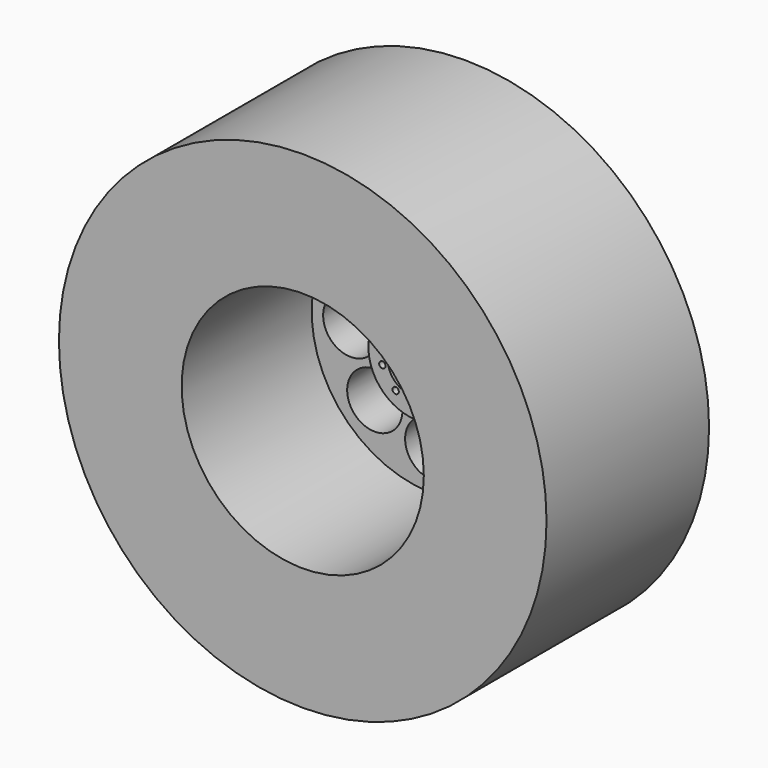
from build123d import *

# Parameters (mm, degrees)
F0_R      = 19.05
F0_R_2    = 17.4625
F1_DEPTH  = 15.875
F2_DEPTH  = 15.875
F3_R      = 9.525
F4_DEPTH  = 12.7
F5_R      = 18.25625
F5_R_2    = 9.525
F6_DEPTH  = 15.8496
F7_R      = 9.5249999873
F7_R_2    = 9.4615
F8_DEPTH  = 12.7
F9_R      = 2.1618701317
F10_DEPTH = 25.4
F11_R     = 3.81
F11_R_2   = 0.2486890232
F12_DEPTH = 1.524
F13_DEPTH = 2.032
F14_R     = 3.4925
F14_R_2   = 2.54
F15_DEPTH = 9.906
F17_DEPTH = 6.35
F18_R     = 1.5875
F19_DEPTH = 25.4


with BuildPart() as f1:
    # F0 (on Front) → F1 (new body)
    with BuildSketch(Plane.XZ):
        Circle(F0_R)
        Circle(F0_R_2, mode=Mode.SUBTRACT)
    extrude(amount=-F1_DEPTH)

    # F0 (on Front) → F2 (join)
    with BuildSketch(Plane.XZ):
        Circle(F0_R_2)
    extrude(amount=-F2_DEPTH)

    # F3 (on face) → F4 (cut)
    with BuildSketch(Plane.XZ):
        Circle(F3_R)
    extrude(amount=-F4_DEPTH, mode=Mode.SUBTRACT)

    # F5 (on face) → F6 (cut)
    with BuildSketch(Plane(origin=(0, 15.875, 0), x_dir=(-1, 0, 0), z_dir=(0, 1, 0))):
        Circle(F5_R)
        Circle(F5_R_2, mode=Mode.SUBTRACT)
    extrude(amount=-F6_DEPTH, mode=Mode.SUBTRACT)

    # F7 (on face) → F8 (join)
    with BuildSketch(Plane.XZ.offset(-12.7)):
        Circle(F7_R)
        Circle(F7_R_2, mode=Mode.SUBTRACT)
    extrude(amount=F8_DEPTH)

    # F9 (on face) → F10 (cut)
    with BuildSketch(Plane(origin=(0, 15.875, 0), x_dir=(-1, 0, 0), z_dir=(0, 1, 0))):
        with Locations((-4.5284211656, 4.5284211656)):
            Circle(F9_R)
        with Locations((-6.4041546286, 0)):
            Circle(F9_R)
        with Locations((-4.5284211656, -4.5284211656)):
            Circle(F9_R)
        with Locations((0, -6.4041546286)):
            Circle(F9_R)
        with Locations((4.5284211656, -4.5284211656)):
            Circle(F9_R)
        with Locations((6.4041546286, 0)):
            Circle(F9_R)
        with Locations((4.5284211656, 4.5284211656)):
            Circle(F9_R)
        with Locations((0, 6.4041546286)):
            Circle(F9_R)
    extrude(amount=-F10_DEPTH, mode=Mode.SUBTRACT)

    # F11 (on face) → F12 (join)
    with BuildSketch(Plane.XZ.offset(-12.7)):
        Circle(F11_R)
        with Locations((-2.7176439953, -0.8830160614)):
            Circle(F11_R_2, mode=Mode.SUBTRACT)
        with Locations((-1.6795963584, -2.3117660614)):
            Circle(F11_R_2, mode=Mode.SUBTRACT)
        with Locations((0, -2.8575)):
            Circle(F11_R_2, mode=Mode.SUBTRACT)
        with Locations((1.6795963584, -2.3117660614)):
            Circle(F11_R_2, mode=Mode.SUBTRACT)
        with Locations((2.7176439953, -0.8830160614)):
            Circle(F11_R_2, mode=Mode.SUBTRACT)
        with Locations((-2.7176439953, 0.8830160614)):
            Circle(F11_R_2, mode=Mode.SUBTRACT)
        with Locations((-1.6795963584, 2.3117660614)):
            Circle(F11_R_2, mode=Mode.SUBTRACT)
        with BuildLine():
            ThreePointArc((0, 1.905), (1.3470384182, 1.3470384182), (1.905, 0))
            ThreePointArc((1.905, 0), (-1.3470384182, -1.3470384182), (0, 1.905))
        make_face(mode=Mode.SUBTRACT)
        with Locations((1.6795963584, 2.3117660614)):
            Circle(F11_R_2, mode=Mode.SUBTRACT)
        with Locations((2.7176439953, 0.8830160614)):
            Circle(F11_R_2, mode=Mode.SUBTRACT)
        with BuildLine():
            ThreePointArc((0.2486890232, 2.8575), (0.1758496947, 2.6816503053), (0, 2.6088109768))
            ThreePointArc((0, 2.6088109768), (-0.1758496947, 3.0333496947), (0.2486890232, 2.8575))
        make_face(mode=Mode.SUBTRACT)
    extrude(amount=F12_DEPTH)

    # F13 (add): a face of the model
    f13_faces = [f1.faces().sort_by_distance(p)[0] for p in [
        (0, 12.7, 0),
    ]]
    extrude(f13_faces, amount=F13_DEPTH)

    # F14 (on face) → F15 (join)
    with BuildSketch(Plane(origin=(0, 15.875, 0), x_dir=(-1, 0, 0), z_dir=(0, 1, 0))):
        Circle(F14_R)
        Circle(F14_R_2, mode=Mode.SUBTRACT)
    extrude(amount=F15_DEPTH)

    # F16 (on face) → F17 (join)
    with BuildSketch(Plane(origin=(0, 0.0254, 0), x_dir=(-1, 0, 0), z_dir=(0, 1, 0))):
        with BuildLine():
            ThreePointArc((-0.1918367084, 9.5230679761), (-0.0959232185, 9.5245169818), (0, 9.525))
            ThreePointArc((0, 9.525), (0.1051390114, 9.5244197087), (0.210265212, 9.5226789057))
            Line((0.210265212, 9.5226789057), (0.210265212, 13.3574450496))
            ThreePointArc((0.210265212, 13.3574450496), (0.5715, 13.8888590037), (0.210265212, 14.4202729578))
            Line((0.210265212, 14.4202729578), (0.210265212, 18.2550391017))
            ThreePointArc((0.210265212, 18.2550391017), (0.0092148106, 18.2562476744), (-0.1918367084, 18.2552420619))
            Line((-0.1918367084, 18.2552420619), (-0.1918367084, 14.4271999062))
            ThreePointArc((-0.1918367084, 14.4271999062), (-0.5715, 13.8888590037), (-0.1918367084, 13.3505181011))
            Line((-0.1918367084, 13.3505181011), (-0.1918367084, 9.5230679761))
        make_face()
        with BuildLine():
            ThreePointArc((-8.3431371434, 4.5953985252), (-8.244279957, 4.770479325), (-8.1417492384, 4.943434468))
            Line((-8.1417492384, 4.943434468), (-11.4627541366, 6.8608175399))
            ThreePointArc((-11.4627541366, 6.8608175399), (-11.7423547268, 7.4393630201), (-12.383190105, 7.392231494))
            Line((-12.383190105, 7.392231494), (-15.7041950031, 9.3096145659))
            ThreePointArc((-15.7041950031, 9.3096145659), (-15.8057668585, 9.1361040973), (-15.905421732, 8.9614855682))
            Line((-15.905421732, 8.9614855682), (-12.5902399784, 7.0474644903))
            ThreePointArc((-12.5902399784, 7.0474644903), (-12.3138547268, 6.4494959836), (-11.6578061835, 6.5091235878))
            Line((-11.6578061835, 6.5091235878), (-8.3431371434, 4.5953985252))
        make_face()
        with BuildLine():
            ThreePointArc((-8.1513004351, -4.9276694509), (-8.2534962622, -4.7545162162), (-8.3520144504, -4.5792444377))
            Line((-8.3520144504, -4.5792444377), (-11.6730193486, -6.4966275097))
            ThreePointArc((-11.6730193486, -6.4966275097), (-12.3138547268, -6.4494959836), (-12.5934553169, -7.0280414638))
            Line((-12.5934553169, -7.0280414638), (-15.9144602151, -8.9454245357))
            ThreePointArc((-15.9144602151, -8.9454245357), (-15.8149816691, -9.1201435771), (-15.7135850237, -9.2937564938))
            Line((-15.7135850237, -9.2937564938), (-12.3984032701, -7.3797354159))
            ThreePointArc((-12.3984032701, -7.3797354159), (-11.7423547268, -7.4393630201), (-11.4659694751, -6.8413945134))
            Line((-11.4659694751, -6.8413945134), (-8.1513004351, -4.9276694509))
        make_face()
        with BuildLine():
            ThreePointArc((0.1918367084, -9.5230679761), (-0.0092163051, -9.5249955412), (-0.210265212, -9.5226789057))
            Line((-0.210265212, -9.5226789057), (-0.210265212, -13.3574450496))
            ThreePointArc((-0.210265212, -13.3574450496), (-0.5715, -13.8888590037), (-0.210265212, -14.4202729578))
            Line((-0.210265212, -14.4202729578), (-0.210265212, -18.2550391017))
            ThreePointArc((-0.210265212, -18.2550391017), (-0.0092148106, -18.2562476744), (0.1918367084, -18.2552420619))
            Line((0.1918367084, -18.2552420619), (0.1918367084, -14.4271999062))
            ThreePointArc((0.1918367084, -14.4271999062), (0.5715, -13.8888590037), (0.1918367084, -13.3505181011))
            Line((0.1918367084, -13.3505181011), (0.1918367084, -9.5230679761))
        make_face()
        with BuildLine():
            Line((11.6578061835, -6.5091235878), (8.3431371434, -4.5953985252))
            ThreePointArc((8.3431371434, -4.5953985252), (8.244279957, -4.770479325), (8.1417492384, -4.943434468))
            Line((8.1417492384, -4.943434468), (11.4627541366, -6.8608175399))
            ThreePointArc((11.4627541366, -6.8608175399), (11.7423547268, -7.4393630201), (12.383190105, -7.392231494))
            Line((12.383190105, -7.392231494), (15.7041950031, -9.3096145659))
            ThreePointArc((15.7041950031, -9.3096145659), (15.8057668585, -9.1361040973), (15.905421732, -8.9614855682))
            Line((15.905421732, -8.9614855682), (12.5902399784, -7.0474644903))
            ThreePointArc((12.5902399784, -7.0474644903), (12.3138547268, -6.4494959836), (11.6578061835, -6.5091235878))
        make_face()
        with BuildLine():
            Line((11.4659694751, 6.8413945134), (8.1513004351, 4.9276694509))
            ThreePointArc((8.1513004351, 4.9276694509), (8.2534962622, 4.7545162162), (8.3520144504, 4.5792444377))
            Line((8.3520144504, 4.5792444377), (11.6730193486, 6.4966275097))
            ThreePointArc((11.6730193486, 6.4966275097), (12.3138547268, 6.4494959836), (12.5934553169, 7.0280414638))
            Line((12.5934553169, 7.0280414638), (15.9144602151, 8.9454245357))
            ThreePointArc((15.9144602151, 8.9454245357), (15.8149816691, 9.1201435771), (15.7135850237, 9.2937564938))
            Line((15.7135850237, 9.2937564938), (12.3984032701, 7.3797354159))
            ThreePointArc((12.3984032701, 7.3797354159), (11.7423547268, 7.4393630201), (11.4659694751, 6.8413945134))
        make_face()
    extrude(amount=F17_DEPTH)

    # F18 (on face) → F19 (cut)
    with BuildSketch(Plane.XZ.offset(-10.668)):
        Circle(F18_R)
    extrude(amount=-F19_DEPTH, mode=Mode.SUBTRACT)


solid = f1.part
